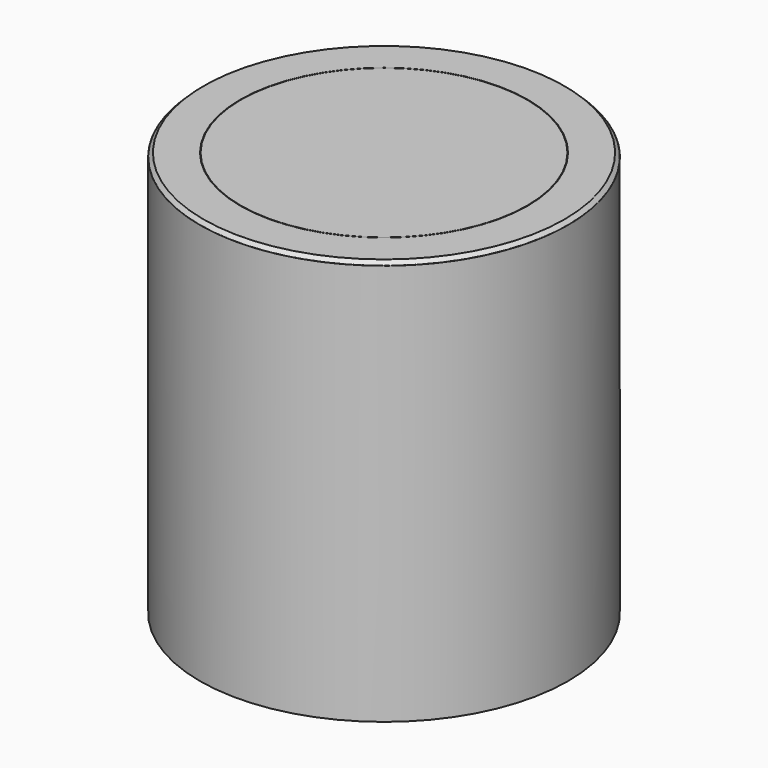
from build123d import *

# Parameters (mm, degrees)
F0_R     = 500
F1_DEPTH = 1100
F2_SIZE  = 10
F3_R     = 390
F4_DEPTH = 252.23259
F5_R     = 389
F6_DEPTH = 252.23259
F7_R     = 0.2
F8_R     = 0.2


with BuildPart() as f1:
    # F0 (on Top) → F1 (new body)
    with BuildSketch(Plane.XY):
        Circle(F0_R)
    extrude(amount=F1_DEPTH)

    # F2
    f2_edges = [f1.edges().sort_by_distance(p)[0] for p in [
        (-500, 0, 1100),
    ]]
    chamfer(f2_edges, length=F2_SIZE)

    # F3 (on face) → F4 (cut)
    with BuildSketch(Plane.XY.offset(1100)):
        Circle(F3_R)
    extrude(amount=-F4_DEPTH, mode=Mode.SUBTRACT)

    # F8
    f8_edges = [f1.edges().sort_by_distance(p)[0] for p in [
        (-390, 0, 1100),
        (-490, 0, 1100),
        (-500, 0, 1090),
    ]]
    fillet(f8_edges, radius=F8_R)


with BuildPart() as f6:
    # F5 (on face) → F6 (new body, through all)
    with BuildSketch(Plane.XY.offset(847.76741)):
        Circle(F5_R)
    extrude(amount=F6_DEPTH)

    # F7
    f7_edges = [f6.edges().sort_by_distance(p)[0] for p in [
        (-389, 0, 1100),
    ]]
    fillet(f7_edges, radius=F7_R)


solid = Compound([f1.part, f6.part])
